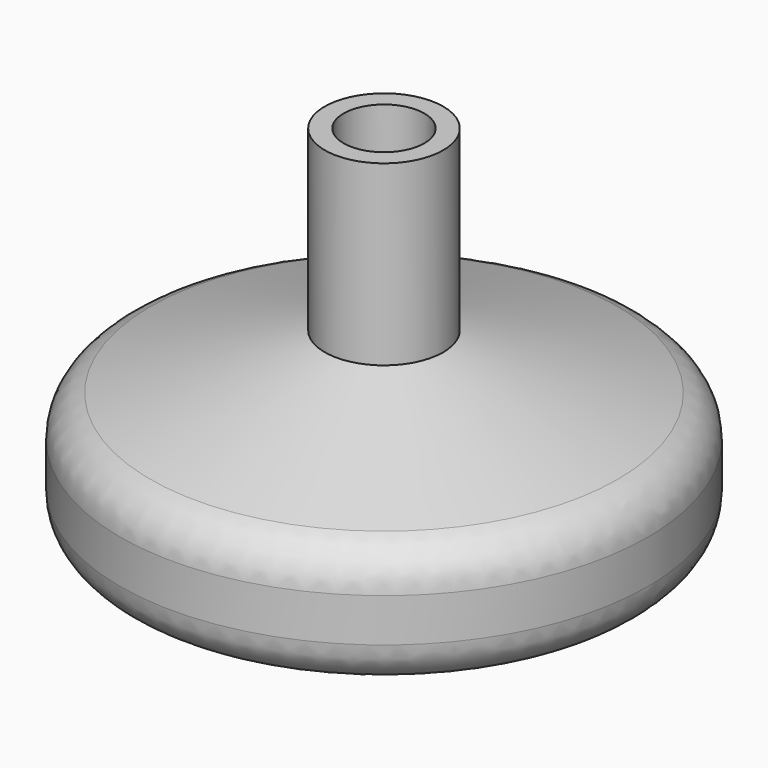
from build123d import *

# Parameters (mm, degrees)
F2_R     = 4.7625
F3_DEPTH = 9.525
F4_R     = 1.5875
F5_DEPTH = 22.225
F6_R     = 5.08


with BuildPart() as f1:
    # F0 (on Front) → F1 (revolve)
    with BuildSketch(Plane.XZ):
        Polygon((3.81, 1.888357), (31.115, 9.508357), (31.115, 22.208357), (6.985, 29.828357), (6.985, 50.8), (0, 50.8), (0, 1.888357), align=None)
    revolve(axis=Axis((0, 0, 26.344178), (0, 0, -1)))

    # F2 (on face) → F3 (cut)
    with BuildSketch(Plane.XY.offset(50.8)):
        Circle(F2_R)
    extrude(amount=-F3_DEPTH, mode=Mode.SUBTRACT)

    # F4 (on face) → F5 (cut)
    with BuildSketch(Plane(origin=(0, 0, 1.888357), x_dir=(1, 0, 0), z_dir=(0, 0, -1))):
        Circle(F4_R)
    extrude(amount=-F5_DEPTH, mode=Mode.SUBTRACT)

    # F6
    f6_edges = [f1.edges().sort_by_distance(p)[0] for p in [
        (-31.115, 0, 9.508357),
        (-31.115, 0, 22.208357),
        (31.115, 0, 15.858357),
    ]]
    fillet(f6_edges, radius=F6_R)


solid = f1.part
